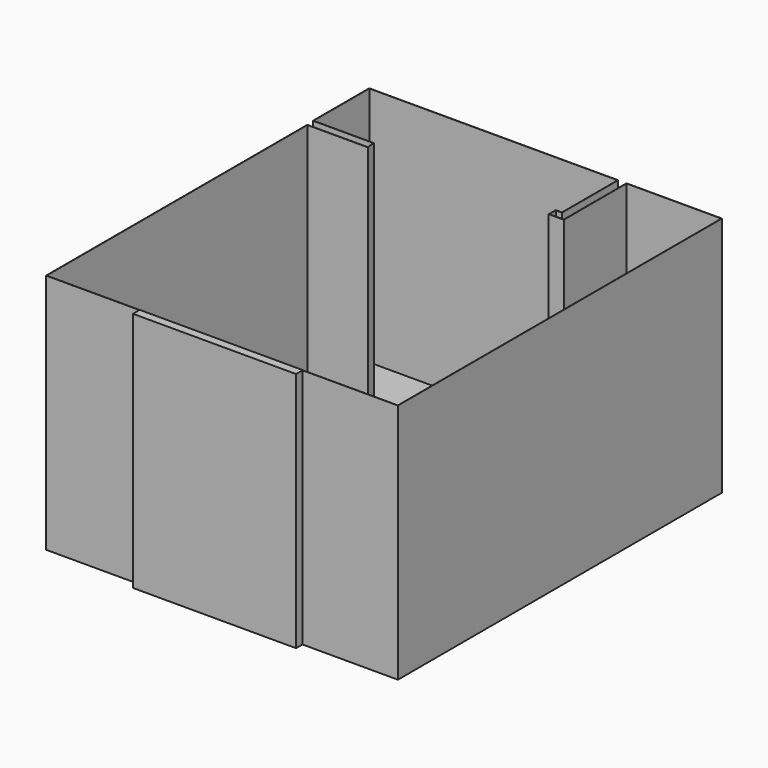
from build123d import *

# Parameters (mm, degrees)
F0_W     = 1613.2740974426
F0_H     = 79.6976089478
F1_DEPTH = 2387.6
F2_T     = -2.54
F3_W     = 1613.2740974426
F3_H     = 308.7692810059
F3_H_2   = 884.065747261
F4_DEPTH = 83.82


with BuildPart() as f1:
    # F0 (on Top) → F1 (new body)
    with BuildSketch(Plane.XY):
        Polygon((88.8126790524, 0), (0, 0), (0, -776.1600017548), (-143.6923742294, -776.1600017548), (-143.6923742294, -694.5448517799), (-82.6144218445, -694.5448517799), (-82.6144218445, 0), (-2544.727563858, 0), (-2544.727563858, -695.8884000778), (-1947.5255012512, -695.8884000778), (-1938.2410049438, -776.1600017548), (-2536.4239215851, -776.1600017548), (-2536.4239215851, -4006.34765625), (-1613.2740974426, -4006.34765625), (0, -4006.34765625), (943.929374218, -4006.34765625), (943.929374218, 0), (853.3876538277, 0), align=None)
        with Locations((-806.6370487213, -4046.1964607239)):
            Rectangle(F0_W, F0_H)
    extrude(amount=F1_DEPTH)

    # F2
    f2_openings = [f1.faces().sort_by_distance(p)[0] for p in [
        (-795.850363, -2033.498492, 2387.6),
    ]]
    offset(amount=F2_T, openings=f2_openings, kind=Kind.INTERSECTION)

    # F3 (on face) → F4 (join)
    with BuildSketch(Plane.XZ.offset(4086.0452651978)):
        with Locations((-806.6370487213, 2233.2153594971)):
            Rectangle(F3_W, F3_H)
        with Locations((-806.6370487213, 442.0328736305)):
            Rectangle(F3_W, F3_H_2)
    extrude(amount=-F4_DEPTH)


solid = f1.part
